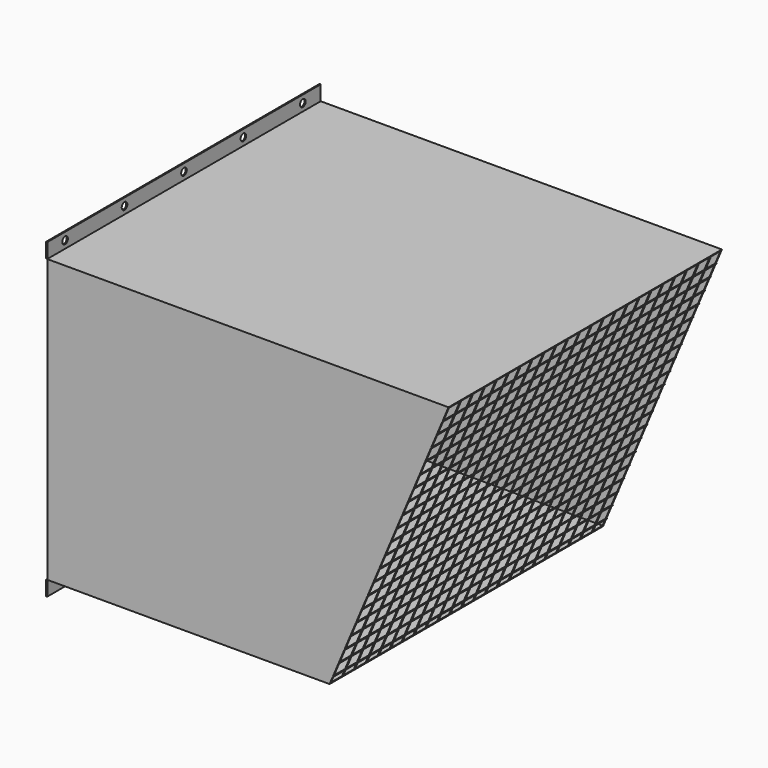
from build123d import *

# Parameters (mm, degrees)
F0_W      = 584.2
F0_H      = 25.4
F1_DEPTH  = 2
F2_W      = 584.2
F2_H      = 482.6
F2_W_2    = 580.2
F2_H_2    = 478.6
F3_DEPTH  = 685.8
F5_DEPTH  = 584.201
F6_W      = 1
F6_H      = 519.294303
F7_DEPTH  = 1
F8_W      = 584.2
F8_H      = 1
F9_DEPTH  = 1
F10_R     = 6
F11_DEPTH = 25.4


with BuildPart() as f1:
    # F0 (on Right) → F1 (new body)
    with BuildSketch(Plane.YZ):
        with Locations((0, 254)):
            Rectangle(F0_W, F0_H)
        with Locations((0, -254)):
            Rectangle(F0_W, F0_H)
    extrude(amount=F1_DEPTH)

    # F2 (on face) → F3 (join)
    with BuildSketch(Plane.YZ.offset(2)):
        Rectangle(F2_W, F2_H)
        Rectangle(F2_W_2, F2_H_2, mode=Mode.SUBTRACT)
    extrude(amount=F3_DEPTH)

    # F4 (on face) → F5 (cut, through all)
    with BuildSketch(Plane.XZ.offset(292.1)):
        Polygon((687.8, -241.3), (687.8, 241.3), (484.6, -241.3), align=None)
    extrude(amount=-F5_DEPTH, mode=Mode.SUBTRACT)

    # F10 (on face) → F11 (cut)
    with BuildSketch(Plane.YZ.offset(2)):
        with Locations((-254, 254)):
            Circle(F10_R)
        with Locations((-127, 254)):
            Circle(F10_R)
        with Locations((0, 254)):
            Circle(F10_R)
        with Locations((127, 254)):
            Circle(F10_R)
        with Locations((254, 254)):
            Circle(F10_R)
        with Locations((-254, -254)):
            Circle(F10_R)
        with Locations((-127, -254)):
            Circle(F10_R)
        with Locations((0, -254)):
            Circle(F10_R)
        with Locations((127, -254)):
            Circle(F10_R)
        with Locations((254, -254)):
            Circle(F10_R)
    extrude(amount=-F11_DEPTH, mode=Mode.SUBTRACT)


with BuildPart() as f7:
    # F6 (on face) → F7 (new body)
    with BuildSketch(Plane(origin=(497.925176, 0, -209.652706), x_dir=(0, 1, 0), z_dir=(0.921635, 0, -0.388057))):
        with Locations((-266.2, 227.479013)):
            Rectangle(F6_W, F6_H)
        with Locations((-240.8, 227.479013)):
            Rectangle(F6_W, F6_H)
        with Locations((-215.4, 227.479013)):
            Rectangle(F6_W, F6_H)
        with Locations((-190, 227.479013)):
            Rectangle(F6_W, F6_H)
        with Locations((-164.6, 227.479013)):
            Rectangle(F6_W, F6_H)
        with Locations((-139.2, 227.479013)):
            Rectangle(F6_W, F6_H)
        with Locations((-113.8, 227.479013)):
            Rectangle(F6_W, F6_H)
        with Locations((-88.4, 227.479013)):
            Rectangle(F6_W, F6_H)
        with Locations((-63, 227.479013)):
            Rectangle(F6_W, F6_H)
        with Locations((-37.6, 227.479013)):
            Rectangle(F6_W, F6_H)
        with Locations((-12.2, 227.479013)):
            Rectangle(F6_W, F6_H)
        with Locations((13.2, 227.479013)):
            Rectangle(F6_W, F6_H)
        with Locations((38.6, 227.479013)):
            Rectangle(F6_W, F6_H)
        with Locations((64, 227.479013)):
            Rectangle(F6_W, F6_H)
        with Locations((89.4, 227.479013)):
            Rectangle(F6_W, F6_H)
        with Locations((114.8, 227.479013)):
            Rectangle(F6_W, F6_H)
        with Locations((140.2, 227.479013)):
            Rectangle(F6_W, F6_H)
        with Locations((165.6, 227.479013)):
            Rectangle(F6_W, F6_H)
        with Locations((191, 227.479013)):
            Rectangle(F6_W, F6_H)
        with Locations((216.4, 227.479013)):
            Rectangle(F6_W, F6_H)
        with Locations((241.8, 227.479013)):
            Rectangle(F6_W, F6_H)
        with Locations((267.2, 227.479013)):
            Rectangle(F6_W, F6_H)
    extrude(amount=F7_DEPTH)


with BuildPart() as f9:
    # F8 (on face) → F9 (new body)
    with BuildSketch(Plane(origin=(497.925176, 0, -209.652706), x_dir=(0, 1, 0), z_dir=(0.921635, 0, -0.388057))):
        with Locations((0, 463.396221)):
            Rectangle(F8_W, F8_H)
        with Locations((0, 437.996221)):
            Rectangle(F8_W, F8_H)
        with Locations((0, 412.596221)):
            Rectangle(F8_W, F8_H)
        with Locations((0, 387.196221)):
            Rectangle(F8_W, F8_H)
        with Locations((0, 361.796221)):
            Rectangle(F8_W, F8_H)
        with Locations((0, 336.396221)):
            Rectangle(F8_W, F8_H)
        with Locations((0, 310.996221)):
            Rectangle(F8_W, F8_H)
        with Locations((0, 285.596221)):
            Rectangle(F8_W, F8_H)
        with Locations((0, 260.196221)):
            Rectangle(F8_W, F8_H)
        with Locations((0, 234.796221)):
            Rectangle(F8_W, F8_H)
        with Locations((0, 209.396221)):
            Rectangle(F8_W, F8_H)
        with Locations((0, 183.996221)):
            Rectangle(F8_W, F8_H)
        with Locations((0, 158.596221)):
            Rectangle(F8_W, F8_H)
        with Locations((0, 133.196221)):
            Rectangle(F8_W, F8_H)
        with Locations((0, 107.796221)):
            Rectangle(F8_W, F8_H)
        with Locations((0, 82.396221)):
            Rectangle(F8_W, F8_H)
        with Locations((0, 56.996221)):
            Rectangle(F8_W, F8_H)
        with Locations((0, 31.596221)):
            Rectangle(F8_W, F8_H)
        with Locations((0, 6.196221)):
            Rectangle(F8_W, F8_H)
        with Locations((0, -19.203779)):
            Rectangle(F8_W, F8_H)
    extrude(amount=F9_DEPTH)


solid = Compound([f1.part, f7.part, f9.part])
